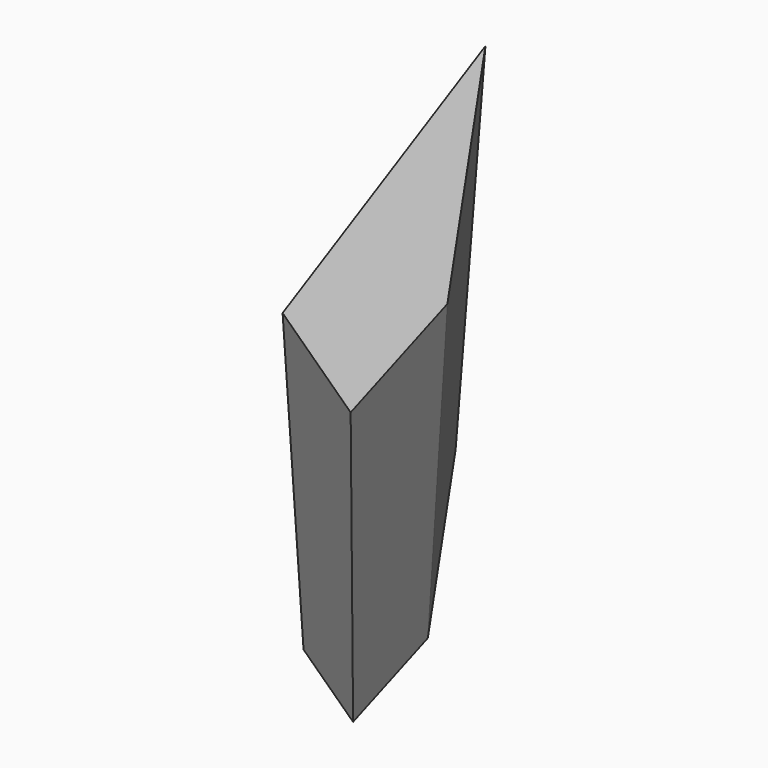
from build123d import *

# Parameters (mm, degrees)
F1_DEPTH = 101.17854
F1_TAPER = -3


with BuildPart() as f1:
    # F0 (on Top) → F1 (new body)
    with BuildSketch(Plane.XY):
        Polygon((-85.4588374496, 79.6182900667), (-44.8880791664, -36.0510535538), (-8.4402728826, -60.4402497411), (-23.117069155, -10.201331228), align=None)
    extrude(amount=F1_DEPTH, taper=F1_TAPER)


solid = f1.part
